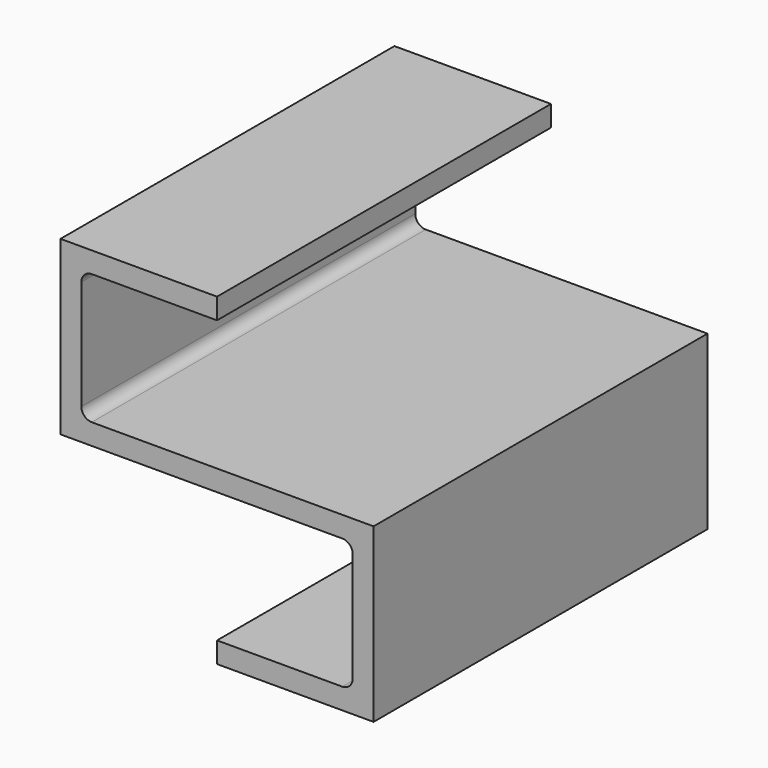
from build123d import *

# Parameters (mm, degrees)
F1_DEPTH = 80


with BuildPart() as f1:
    # F0 (on Front) → F1 (new body)
    with BuildSketch(Plane.XZ):
        with BuildLine():
            Line((24, 0), (0, 0))
            Line((0, 0), (0, -4))
            Line((0, -4), (30, -4))
            Line((30, -4), (30, 29))
            Line((30, 29), (-24, 29))
            ThreePointArc((-24, 29), (-25.414214, 29.585786), (-26, 31))
            Line((-26, 31), (-26, 52))
            ThreePointArc((-26, 52), (-25.414214, 53.414214), (-24, 54))
            Line((-24, 54), (0, 54))
            Line((0, 54), (0, 58))
            Line((0, 58), (-30, 58))
            Line((-30, 58), (-30, 25))
            Line((-30, 25), (24, 25))
            ThreePointArc((24, 25), (25.414214, 24.414214), (26, 23))
            Line((26, 23), (26, 2))
            ThreePointArc((26, 2), (25.414214, 0.585786), (24, 0))
        make_face()
    extrude(amount=F1_DEPTH)


solid = f1.part
